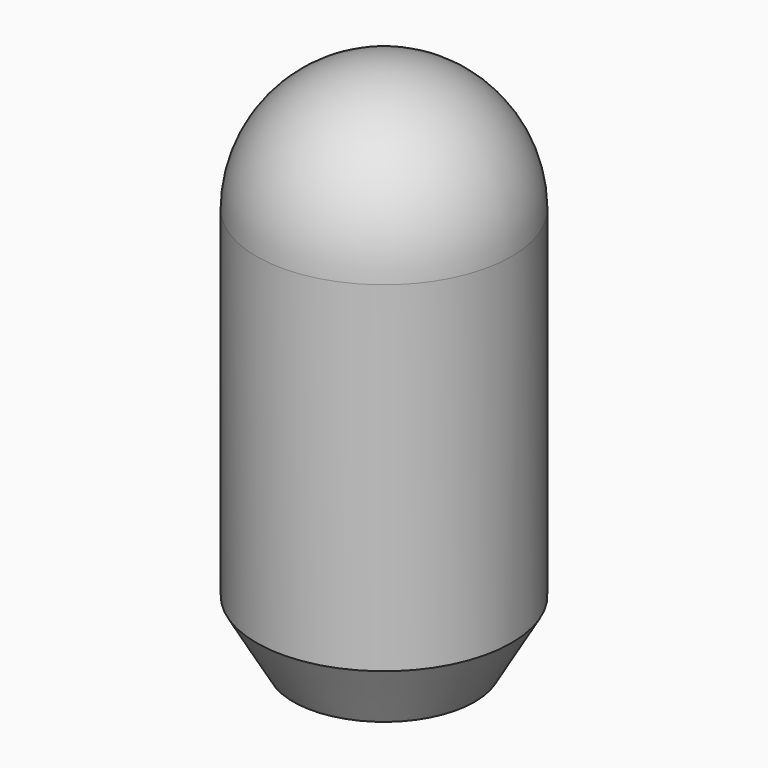
from build123d import *

# Parameters (mm, degrees)
F0_R     = 6
F1_DEPTH = 25
F2_R     = 6
F3_SIZE2 = 1.732051
F3_SIZE  = 3


with BuildPart() as f1:
    # F0 (on Top) → F1 (new body)
    with BuildSketch(Plane.XY):
        Circle(F0_R)
    extrude(amount=F1_DEPTH)

    # F2
    f2_edges = [f1.edges().sort_by_distance(p)[0] for p in [
        (-6, 0, 25),
    ]]
    fillet(f2_edges, radius=F2_R)

    # F3
    f3_edges = [f1.edges().sort_by_distance(p)[0] for p in [
        (-6, 0, 0),
    ]]
    chamfer(f3_edges, length=F3_SIZE, length2=F3_SIZE2)


solid = f1.part
